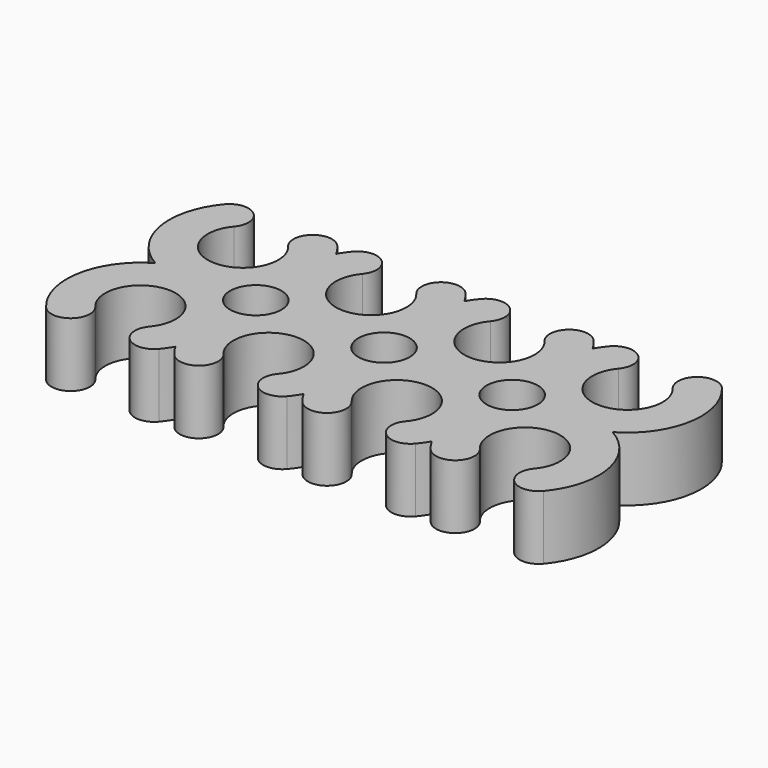
from build123d import *

# Parameters (mm, degrees)
SKETCH_R  = 2
PAD_DEPTH = 5


with BuildPart() as part:
    # Sketch → Pad (new body)
    with BuildSketch(Plane.XY):
        with BuildLine():
            ThreePointArc((7.893378, 21.767666), (10, 17.25), (12.106622, 21.767666))
            ThreePointArc((14.404756, 23.696029), (12.291507, 23.880914), (12.106622, 21.767666))
            ThreePointArc((15, 22.839454), (14.721841, 23.281267), (14.404756, 23.696029))
            ThreePointArc((15.595244, 23.696029), (15.278159, 23.281267), (15, 22.839454))
            ThreePointArc((17.893378, 21.767666), (17.708493, 23.880914), (15.595244, 23.696029))
            ThreePointArc((17.893378, 21.767666), (20, 17.25), (22.106622, 21.767666))
            ThreePointArc((24.404756, 23.696029), (22.291507, 23.880914), (22.106622, 21.767666))
            ThreePointArc((25, 22.839454), (24.721841, 23.281267), (24.404756, 23.696029))
            ThreePointArc((25.595244, 23.696029), (25.278159, 23.281267), (25, 22.839454))
            ThreePointArc((27.893378, 21.767666), (27.708493, 23.880914), (25.595244, 23.696029))
            ThreePointArc((27.893378, 21.767666), (30, 17.25), (32.106622, 21.767666))
            ThreePointArc((34.404756, 23.696029), (32.291507, 23.880914), (32.106622, 21.767666))
            ThreePointArc((35, 22.839454), (34.721841, 23.281267), (34.404756, 23.696029))
            ThreePointArc((35.595244, 23.696029), (35.278159, 23.281267), (35, 22.839454))
            ThreePointArc((37.893378, 21.767666), (37.708493, 23.880914), (35.595244, 23.696029))
            ThreePointArc((37.893378, 21.767666), (40, 17.25), (42.106622, 21.767666))
            ThreePointArc((44.404756, 23.696029), (42.291507, 23.880914), (42.106622, 21.767666))
            ThreePointArc((42.839454, 15), (45.659052, 18.98136), (44.404756, 23.696029))
            ThreePointArc((44.404756, 6.303971), (45.659052, 11.01864), (42.839454, 15))
            ThreePointArc((42.106622, 8.232334), (42.291507, 6.119086), (44.404756, 6.303971))
            ThreePointArc((42.106622, 8.232334), (40, 12.75), (37.893378, 8.232334))
            ThreePointArc((35.595244, 6.303971), (37.708493, 6.119086), (37.893378, 8.232334))
            ThreePointArc((35, 7.160546), (35.278159, 6.718733), (35.595244, 6.303971))
            ThreePointArc((34.404756, 6.303971), (34.721841, 6.718733), (35, 7.160546))
            ThreePointArc((32.106622, 8.232334), (32.291507, 6.119086), (34.404756, 6.303971))
            ThreePointArc((32.106622, 8.232334), (30, 12.75), (27.893378, 8.232334))
            ThreePointArc((25.595244, 6.303971), (27.708493, 6.119086), (27.893378, 8.232334))
            ThreePointArc((25, 7.160546), (25.278159, 6.718733), (25.595244, 6.303971))
            ThreePointArc((24.404756, 6.303971), (24.721841, 6.718733), (25, 7.160546))
            ThreePointArc((22.106622, 8.232334), (22.291507, 6.119086), (24.404756, 6.303971))
            ThreePointArc((22.106622, 8.232334), (20, 12.75), (17.893378, 8.232334))
            ThreePointArc((15.595244, 6.303971), (17.708493, 6.119086), (17.893378, 8.232334))
            ThreePointArc((15, 7.160546), (15.278159, 6.718733), (15.595244, 6.303971))
            ThreePointArc((14.404756, 6.303971), (14.721841, 6.718733), (15, 7.160546))
            ThreePointArc((12.106622, 8.232334), (12.291507, 6.119086), (14.404756, 6.303971))
            ThreePointArc((12.106622, 8.232334), (10, 12.75), (7.893378, 8.232334))
            ThreePointArc((5.595244, 6.303971), (7.708493, 6.119086), (7.893378, 8.232334))
            ThreePointArc((7.160546, 15), (4.340948, 11.01864), (5.595244, 6.303971))
            ThreePointArc((5.595244, 23.696029), (4.340948, 18.98136), (7.160546, 15))
            ThreePointArc((7.893378, 21.767666), (7.708493, 23.880914), (5.595244, 23.696029))
        make_face()
        with Locations((15, 15)):
            Circle(SKETCH_R, mode=Mode.SUBTRACT)
        with Locations((25, 15)):
            Circle(SKETCH_R, mode=Mode.SUBTRACT)
        with Locations((35, 15)):
            Circle(SKETCH_R, mode=Mode.SUBTRACT)
    extrude(amount=PAD_DEPTH)


solid = part.part
